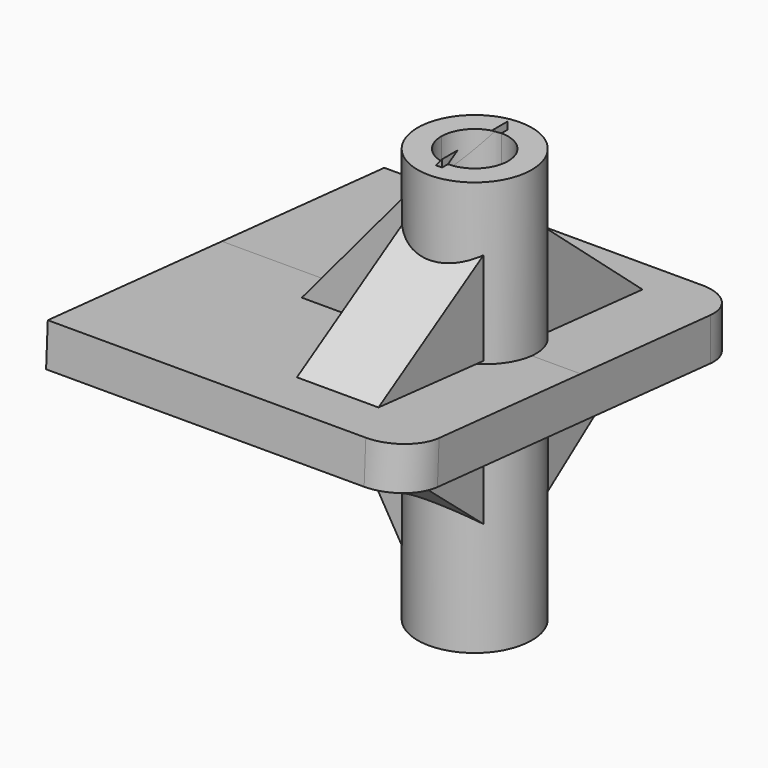
from build123d import *

# Parameters (mm, degrees)
F0_R          = 7
F0_R_2        = 4.1
F1_DEPTH      = 50.8
F3_DEPTH      = 31
F3_DEPTH_BACK = 13
F4_D          = 8
F4_DEPTH      = 50.8
F4_TIP        = 2.4034424761
F5_R          = 5
F7_DEPTH      = 5
F9_DEPTH      = 5
F10_D         = 8.2
F10_DEPTH     = 50.8
F10_TIP       = 2.463528538


with BuildPart() as f1:
    # F0 (on Top) → F1 (new body)
    with BuildSketch(Plane.XY):
        Circle(F0_R)
        Circle(F0_R_2, mode=Mode.SUBTRACT)
    extrude(amount=F1_DEPTH)

    # F2 (on Right) → F3 (join, two sides)
    with BuildSketch(Plane.YZ) as f3_sk:
        Polygon((0, 25.5047638916), (24.8914179106, 23.3270470053), (24.8889016367, 28.5443344728), (0, 30.7218312136), align=None)
        Polygon((-26.9524334618, 27.8627962739), (0, 25.5047638916), (0, 30.7218312136), (-26.6906069858, 33.0569567475), align=None)
    extrude(amount=-F3_DEPTH)
    extrude(f3_sk.sketch, amount=F3_DEPTH_BACK)

    # F4
    with Locations(Plane(origin=(0, 0, 0), x_dir=(1, 0, 0), z_dir=(0, 0, -1))):
        with Locations((0, 0)):
            Hole(F4_D / 2, depth=F4_DEPTH)
            with Locations((0, 0, -(F4_DEPTH + F4_TIP / 2))):  # 118° drill point
                Cone(0, F4_D / 2, F4_TIP, mode=Mode.SUBTRACT)

    # F5
    f5_edges = [f1.edges().sort_by_distance(p)[0] for p in [
        (13, 24.89016, 25.935691),
        (13, -26.82152, 30.459877),
    ]]
    fillet(f5_edges, radius=F5_R)

    # F6 (on Right) → F7 (join, symmetric)
    with BuildSketch(Plane.YZ):
        Polygon((0, 9.7866365686), (18.7852662057, 23.5712174326), (0, 25.8125010878), (-21.4374996722, 27.7812518179), align=None)
        Polygon((-21.0000015795, 33.0312512815), (0, 31.0625005513), (19.4687508047, 29.3125007302), (0, 45.9375008941), align=None)
    extrude(amount=F7_DEPTH, both=True)

    # F8 (on Front) → F9 (join, symmetric)
    with BuildSketch(Plane.XZ):
        Polygon((0, 51.6971051693), (-17.865261063, 30.367417261), (0, 0), align=None)
    extrude(amount=F9_DEPTH, both=True)

    # F10
    with Locations(Plane(origin=(0, 0, 0), x_dir=(1, 0, 0), z_dir=(0, 0, -1))):
        with Locations((0, 0)):
            Hole(F10_D / 2, depth=F10_DEPTH)
            with Locations((0, 0, -(F10_DEPTH + F10_TIP / 2))):  # 118° drill point
                Cone(0, F10_D / 2, F10_TIP, mode=Mode.SUBTRACT)


solid = f1.part
